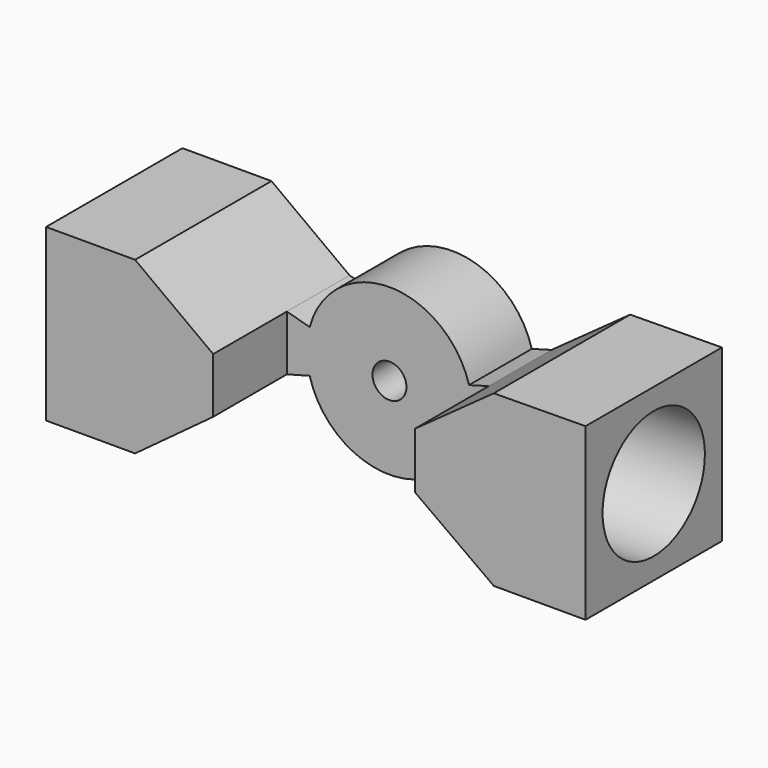
from build123d import *

# Parameters (mm, degrees)
F1_DEPTH = 12.7
F3_DEPTH = 6.858
F4_R     = 4.130232
F5_DEPTH = 6.35
F6_R     = 4.764812
F7_DEPTH = 6.35
F8_R     = 1.264883
F9_DEPTH = 25.4


with BuildPart() as f1:
    # F0 (on Front) → F1 (new body)
    with BuildSketch(Plane.XZ):
        Polygon((-7.644902, -2.058817), (-7.644902, 2.058817), (-13.462164, 6.35), (-20.092922, 6.35), (-20.092922, 0), (-20.092922, -6.35), (-13.462164, -6.35), align=None)
        with BuildLine():
            Line((7.394814, 2.058817), (5.928265, 1.65051))
            ThreePointArc((5.928265, 1.65051), (-0.026068, 6.153685), (-5.942036, 1.600225))
            Line((-5.942036, 1.600225), (-7.644902, 2.058817))
            Line((-7.644902, 2.058817), (-7.644902, -2.058817))
            Line((-7.644902, -2.058817), (-5.942036, -1.600225))
            ThreePointArc((-5.942036, -1.600225), (-0.051739, -6.153522), (5.914289, -1.699913))
            Line((5.914289, -1.699913), (7.394814, -2.125453))
            Line((7.394814, -2.125453), (7.394814, 2.058817))
        make_face()
        Polygon((13.260647, 6.283364), (7.394814, 2.058817), (7.394814, -2.125453), (13.260647, -6.35), (20.092922, -6.35), (20.092922, 0), (20.092922, 6.35), align=None)
    extrude(amount=F1_DEPTH)

    # F2 (on face) → F3 (cut)
    with BuildSketch(Plane.XZ.offset(12.7)):
        with BuildLine():
            Line((-5.942036, 1.600225), (-7.644902, 2.058817))
            Line((-7.644902, 2.058817), (-7.644902, -2.058817))
            Line((-7.644902, -2.058817), (-5.942036, -1.600225))
            ThreePointArc((-5.942036, -1.600225), (-0.051739, -6.153522), (5.914289, -1.699913))
            Line((5.914289, -1.699913), (7.394814, -2.125453))
            Line((7.394814, -2.125453), (7.394814, 2.058817))
            Line((7.394814, 2.058817), (5.928265, 1.65051))
            ThreePointArc((5.928265, 1.65051), (-0.026068, 6.153685), (-5.942036, 1.600225))
        make_face()
    extrude(amount=-F3_DEPTH, mode=Mode.SUBTRACT)

    # F4 (on face) → F5 (cut)
    with BuildSketch(Plane(origin=(-20.092922, 0, 0), x_dir=(0, -1, 0), z_dir=(-1, 0, 0))):
        with Locations((6.35, 0)):
            Circle(F4_R)
    extrude(amount=-F5_DEPTH, mode=Mode.SUBTRACT)

    # F6 (on face) → F7 (cut)
    with BuildSketch(Plane.YZ.offset(20.092922)):
        with Locations((-6.349694, 0)):
            Circle(F6_R)
    extrude(amount=-F7_DEPTH, mode=Mode.SUBTRACT)

    # F8 (on face) → F9 (cut)
    with BuildSketch(Plane.XZ.offset(5.842)):
        Circle(F8_R)
    extrude(amount=-F9_DEPTH, mode=Mode.SUBTRACT)


solid = f1.part
